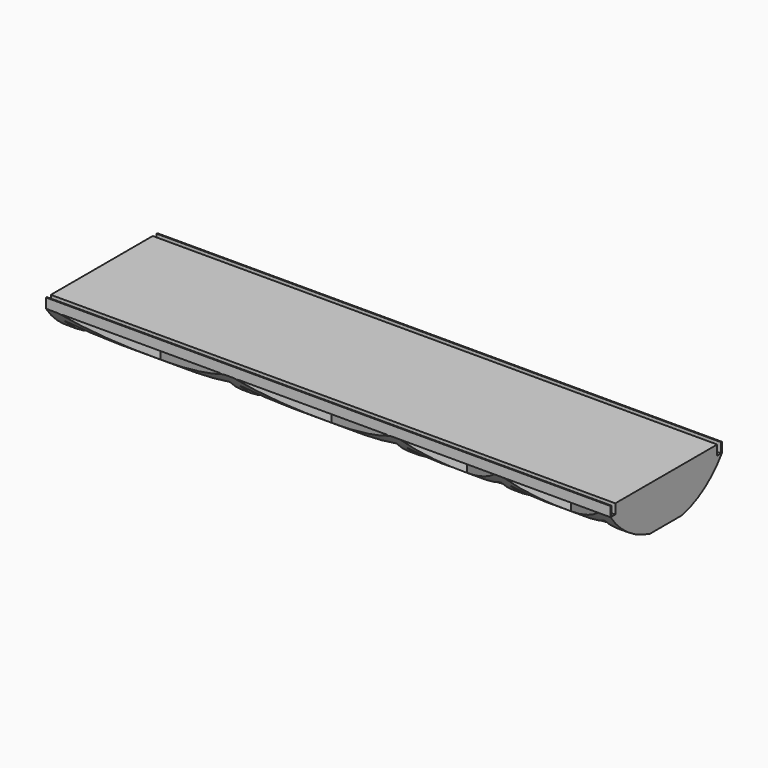
from build123d import *

# Parameters (mm, degrees)
F0_W      = 25.79375
F0_H      = 2
F2_DEPTH  = 57.15
F3_W      = 33.45
F3_H      = 5.35
F3_W_2    = 31.75
F3_W_3    = 19.05
F4_DEPTH  = 25.4
F5_W      = 25.79375
F5_H      = 2
F6_DEPTH  = 114.3
F7_W      = 24.949031
F7_H      = 4.702146
F8_DEPTH  = 114.3
F9_W      = 0.2
F9_H      = 2
F10_DEPTH = 114.3


with BuildPart() as f2:
    # F0 (on Right) → F2 (new body, symmetric)
    with BuildSketch(Plane.YZ):
        with BuildLine():
            Line((-12.896875, -9.50148), (-14.096875, -9.50148))
            ThreePointArc((-14.096875, -9.50148), (0, -17), (14.096875, -9.50148))
            Line((14.096875, -9.50148), (12.896875, -9.50148))
            Line((12.896875, -9.50148), (-12.896875, -9.50148))
        make_face()
        with Locations((0, -8.50148)):
            Rectangle(F0_W, F0_H)
    extrude(amount=F2_DEPTH, both=True)

    # F3 (on face) → F4 (intersect)
    with BuildSketch(Plane.XY.offset(-9.50148)):
        Polygon((-54.65, 14.096875), (-57.15, 14.096875), (-57.15, -14.096875), (-54.65, -14.096875), (-37.925, -9.135938), (-21.2, -14.096875), (-19.2, -14.096875), (-3.325, -9.135938), (12.55, -14.096875), (14.55, -14.096875), (24.075, -9.135937), (33.6, -14.096875), (35.6, -14.096875), (45.125, -9.135937), (54.65, -14.096875), (57.15, -14.096875), (57.15, 14.096875), (54.65, 14.096875), (45.125, 9.135938), (35.6, 14.096875), (33.6, 14.096875), (24.075, 9.135937), (14.55, 14.096875), (12.55, 14.096875), (-3.325, 9.135937), (-19.2, 14.096875), (-21.2, 14.096875), (-37.925, 9.135938), align=None)
        Polygon((-40.562391, -8.35364), (-54.65, -12.532279), (-54.65, -4.175), align=None, mode=Mode.SUBTRACT)
        Polygon((-21.2, -4.175), (-21.2, -12.532279), (-35.287609, -8.35364), align=None, mode=Mode.SUBTRACT)
        Polygon((-5.839458, -8.350169), (-19.2, -12.525339), (-19.2, -4.175), align=None, mode=Mode.SUBTRACT)
        Polygon((-37.925, -7.571342), (-49.375218, -4.175), (-26.474782, -4.175), align=None, mode=Mode.SUBTRACT)
        Polygon((-3.325, -7.564401), (-14.171084, -4.175), (7.521084, -4.175), align=None, mode=Mode.SUBTRACT)
        Polygon((12.55, -4.175), (12.55, -12.525339), (-0.810542, -8.350169), align=None, mode=Mode.SUBTRACT)
        Polygon((22.451393, -8.290309), (14.55, -12.405618), (14.55, -4.175), align=None, mode=Mode.SUBTRACT)
        Polygon((33.6, -4.175), (33.6, -12.405618), (25.698607, -8.290309), align=None, mode=Mode.SUBTRACT)
        Polygon((43.501393, -8.290309), (35.6, -12.405618), (35.6, -4.175), align=None, mode=Mode.SUBTRACT)
        Polygon((54.65, -4.175), (54.65, -12.405618), (46.748607, -8.290309), align=None, mode=Mode.SUBTRACT)
        Polygon((24.075, -7.44468), (17.797214, -4.175), (30.352786, -4.175), align=None, mode=Mode.SUBTRACT)
        Polygon((45.125, -7.44468), (38.847214, -4.175), (51.402786, -4.175), align=None, mode=Mode.SUBTRACT)
        with Locations((-37.925, 0)):
            Rectangle(F3_W, F3_H, mode=Mode.SUBTRACT)
        Polygon((-26.474782, 4.175), (-49.375218, 4.175), (-37.925, 7.571342), align=None, mode=Mode.SUBTRACT)
        with Locations((-3.325, 0)):
            Rectangle(F3_W_2, F3_H, mode=Mode.SUBTRACT)
        Polygon((7.521084, 4.175), (-14.171084, 4.175), (-3.325, 7.564401), align=None, mode=Mode.SUBTRACT)
        Polygon((-40.562391, 8.35364), (-54.65, 4.175), (-54.65, 12.532279), align=None, mode=Mode.SUBTRACT)
        Polygon((-21.2, 12.532279), (-21.2, 4.175), (-35.287609, 8.35364), align=None, mode=Mode.SUBTRACT)
        Polygon((-5.839458, 8.350169), (-19.2, 4.175), (-19.2, 12.525339), align=None, mode=Mode.SUBTRACT)
        with Locations((24.075, 0)):
            Rectangle(F3_W_3, F3_H, mode=Mode.SUBTRACT)
        Polygon((30.352786, 4.175), (17.797214, 4.175), (24.075, 7.44468), align=None, mode=Mode.SUBTRACT)
        with Locations((45.125, 0)):
            Rectangle(F3_W_3, F3_H, mode=Mode.SUBTRACT)
        Polygon((51.402786, 4.175), (38.847214, 4.175), (45.125, 7.44468), align=None, mode=Mode.SUBTRACT)
        Polygon((12.55, 12.525339), (12.55, 4.175), (-0.810542, 8.350169), align=None, mode=Mode.SUBTRACT)
        Polygon((22.451393, 8.290309), (14.55, 4.175), (14.55, 12.405618), align=None, mode=Mode.SUBTRACT)
        Polygon((33.6, 12.405618), (33.6, 4.175), (25.698607, 8.290309), align=None, mode=Mode.SUBTRACT)
        Polygon((43.501393, 8.290309), (35.6, 4.175), (35.6, 12.405618), align=None, mode=Mode.SUBTRACT)
        Polygon((54.65, 12.405618), (54.65, 4.175), (46.748607, 8.290309), align=None, mode=Mode.SUBTRACT)
    extrude(amount=-F4_DEPTH, mode=Mode.INTERSECT)

    # F5 (on face) → F6 (join)
    with BuildSketch(Plane.YZ.offset(57.15)):
        with Locations((0, -8.50148)):
            Rectangle(F5_W, F5_H)
    extrude(amount=-F6_DEPTH)

    # F7 (on face) → F8 (cut)
    with BuildSketch(Plane.YZ.offset(57.15)):
        with Locations((-1.411293, -18.852553)):
            Rectangle(F7_W, F7_H)
    extrude(amount=-F8_DEPTH, mode=Mode.SUBTRACT)

    # F9 (on face) → F10 (join)
    with BuildSketch(Plane.YZ.offset(57.15)):
        with Locations((-13.996875, -8.50148)):
            Rectangle(F9_W, F9_H)
        with Locations((13.996875, -8.50148)):
            Rectangle(F9_W, F9_H)
    extrude(amount=-F10_DEPTH)


solid = f2.part
